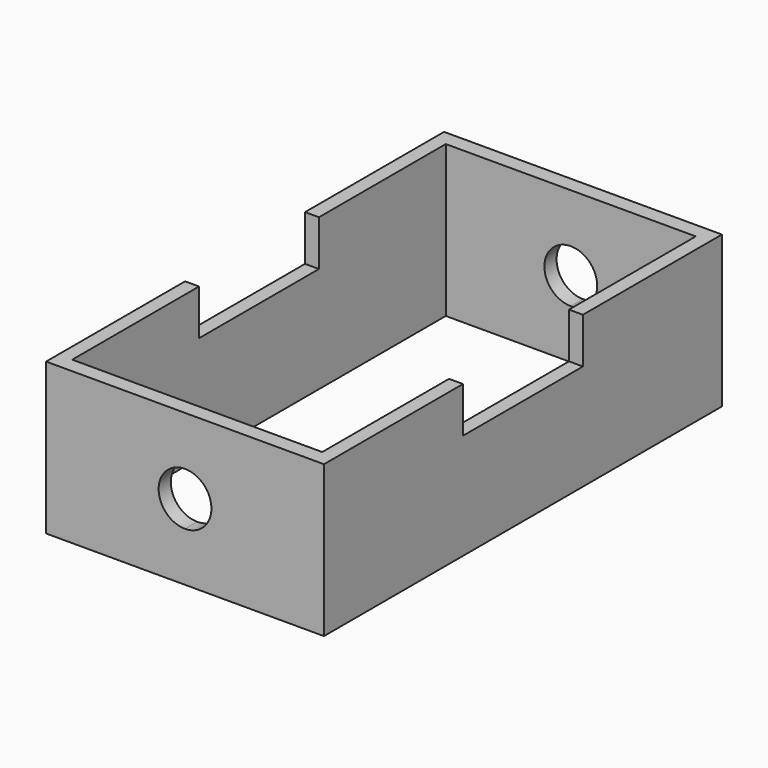
from build123d import *

# Parameters (mm, degrees)
F0_W     = 46.632492
F0_H     = 83.48006
F0_W_2   = 41.954536
F0_H_2   = 78.36432
F1_DEPTH = 25.4
F2_W     = 25.159884
F2_H     = 7.646168
F3_DEPTH = 76.2
F5_DEPTH = 127


with BuildPart() as f1:
    # F0 (on Top) → F1 (new body)
    with BuildSketch(Plane.XY):
        Rectangle(F0_W, F0_H)
        Rectangle(F0_W_2, F0_H_2, mode=Mode.SUBTRACT)
    extrude(amount=F1_DEPTH)

    # F2 (on face) → F3 (cut)
    with BuildSketch(Plane.YZ.offset(23.316246)):
        with Locations((0, 21.576916)):
            Rectangle(F2_W, F2_H)
    extrude(amount=-F3_DEPTH, mode=Mode.SUBTRACT)

    # F4 (on face) → F5 (cut)
    with BuildSketch(Plane.XZ.offset(41.74003)):
        with BuildLine():
            Line((0, 17.130356), (0, 8.269644))
            ThreePointArc((0, 8.269644), (3.132735, 9.567265), (4.430356, 12.7))
            ThreePointArc((4.430356, 12.7), (3.132735, 15.832735), (0, 17.130356))
        make_face()
        with BuildLine():
            ThreePointArc((0, 17.130356), (-4.430356, 12.7), (0, 8.269644))
            Line((0, 8.269644), (0, 17.130356))
        make_face()
    extrude(amount=-F5_DEPTH, mode=Mode.SUBTRACT)


solid = f1.part
